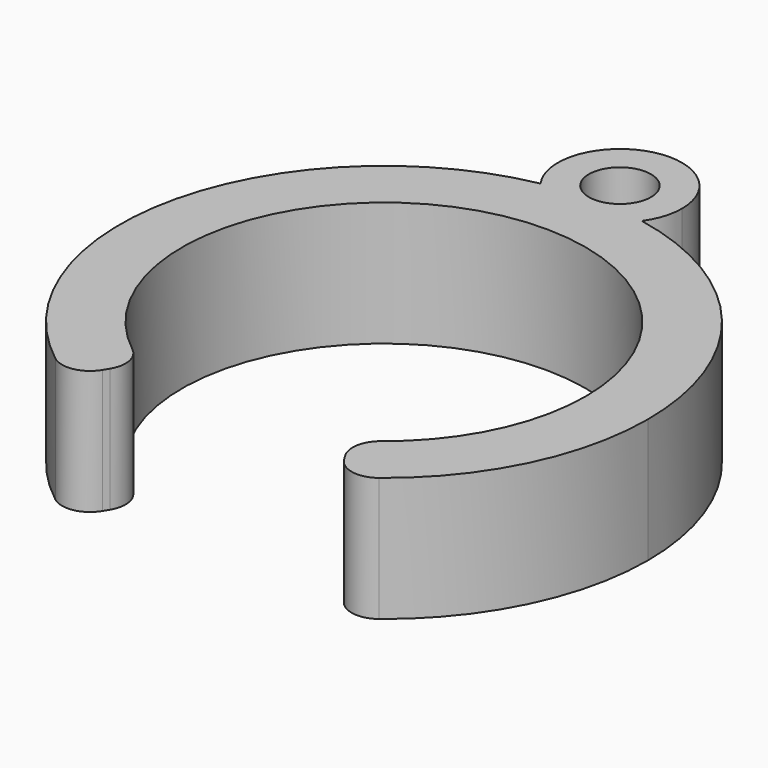
from build123d import *

# Parameters (mm, degrees)
F1_DEPTH = 4
F2_R     = 0.9


with BuildPart() as f1:
    # F0 (on Top) → F1 (new body)
    with BuildSketch(Plane.XY):
        with BuildLine():
            ThreePointArc((2, 9.5), (-0.6076760404, 11.4054474094), (-1.63072983, 8.3421052632))
            ThreePointArc((-1.63072983, 8.3421052632), (-0.8191780193, 8.4604342307), (5.2e-09, 8.5))
            ThreePointArc((5.2e-09, 8.5), (0.8191780245, 8.4604342302), (1.63072983, 8.3421052632))
            ThreePointArc((1.63072983, 8.3421052632), (1.9054474094, 8.8923239596), (2, 9.5))
        make_face()
        with BuildLine():
            ThreePointArc((1, 9.5), (0.707106783, 8.7928932207), (5.2e-09, 8.5))
            ThreePointArc((5.2e-09, 8.5), (-0.707106783, 10.2071067793), (1, 9.5))
        make_face(mode=Mode.SUBTRACT)
        with BuildLine():
            ThreePointArc((5.2e-09, 8.5), (-0.8191780193, 8.4604342307), (-1.63072983, 8.3421052632))
            ThreePointArc((-1.63072983, 8.3421052632), (0, 7.5), (1.63072983, 8.3421052632))
            ThreePointArc((1.63072983, 8.3421052632), (0.8191780245, 8.4604342302), (5.2e-09, 8.5))
        make_face()
        with BuildLine():
            ThreePointArc((-3.3514054387, -5.569388719), (-3.202797807, 5.6591750341), (6.4974120534, 0.0015556717))
            ThreePointArc((6.4974120534, 0.0015556717), (5.6561231197, -3.1967234074), (3.3500308017, -5.5671019338))
            Line((3.3500308017, -5.5671019338), (4.3818105446, -7.2835249949))
            ThreePointArc((4.3818105446, -7.2835249949), (7.3991685218, -4.183575646), (8.5, 0))
            ThreePointArc((8.5, 0), (6.5616767505, 5.4031840819), (1.63072983, 8.3421052632))
            ThreePointArc((1.63072983, 8.3421052632), (0, 7.5), (-1.63072983, 8.3421052632))
            ThreePointArc((-1.63072983, 8.3421052632), (-8.3712448704, 1.4738586502), (-4.3818105446, -7.2835249949))
            Line((-4.3818105446, -7.2835249949), (-3.3514054387, -5.569388719))
        make_face()
    extrude(amount=F1_DEPTH)

    # F2
    f2_edges = [f1.edges().sort_by_distance(p)[0] for p in [
        (4.381811, -7.283525, 2),
        (3.350031, -5.567102, 2),
        (-3.351405, -5.569389, 2),
        (-4.381811, -7.283525, 2),
    ]]
    fillet(f2_edges, radius=F2_R)


solid = f1.part
